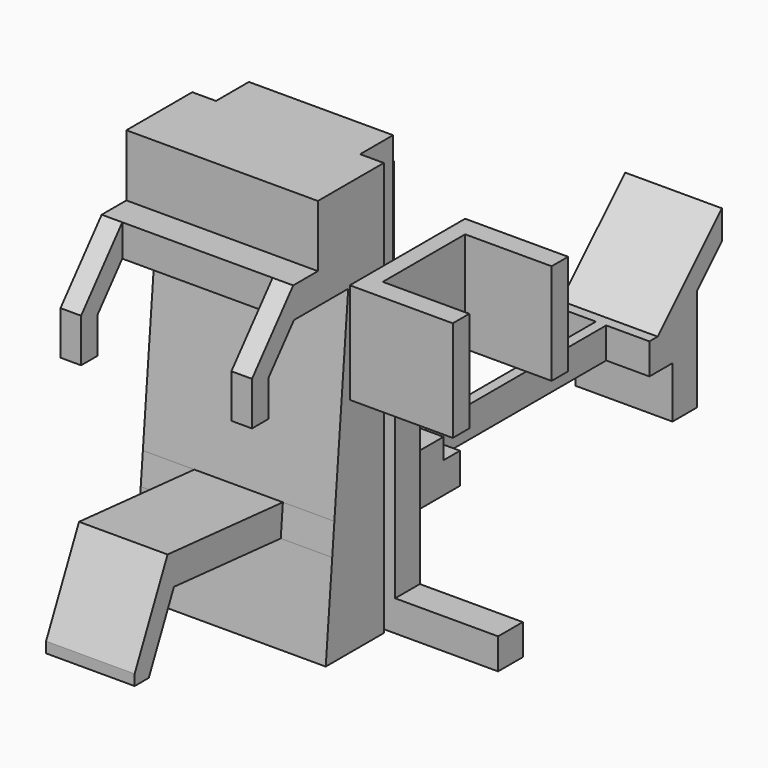
from build123d import *

# Parameters (mm, degrees)
F0_W           = 700
F0_H           = 200
F1_DEPTH       = 2010
F3_DEPTH       = 75
F6_DEPTH       = 465
F7_W           = 730
F7_H           = 250
F8_DEPTH       = 510
F10_DEPTH      = 235
F11_DEPTH      = 450
F11_DEPTH_BACK = 40
F12_W          = 250
F12_H          = 702.6738862803
F12_H_2        = 161.8577209214
F13_DEPTH      = 678.928617416
F14_W          = 210
F14_H          = 1150
F15_DEPTH      = 400.001


with BuildPart() as f1:
    # F0 (on Top) → F1 (new body)
    with BuildSketch(Plane.XY):
        Rectangle(F0_W, F0_H)
    extrude(amount=F1_DEPTH)

    # F2 (on Front) → F3 (join, symmetric)
    with BuildSketch(Plane.XZ):
        Polygon((500, 1150), (350, 1150), (350, 0), (1000, 0), (1000, 150), (500, 150), align=None)
    extrude(amount=F3_DEPTH, both=True)

    # F5 (on Right) → F6 (join, symmetric)
    with BuildSketch(Plane.YZ):
        Polygon((-100, 0), (-100, 2010), (-500, 2010), (-500, 1710), (-650, 1710), (-900, 1412.0616018514), (-900, 1200), (-800, 1200), (-800, 1375.6645784248), (-645.3242157434, 1560), (-316.0108830151, 1560), (-400, 600), (-1100, 661.2420644681), (-1300, 232.3406803662), (-1300, 180), (-1214.0690681916, 180), (-1061.4483185813, 507.2962537526), (-413.0733614121, 450.5707952862), (-452.4931981156, 0), align=None)
    extrude(amount=F6_DEPTH, both=True)

    # F7 (on face) → F8 (cut, through all)
    with BuildSketch(Plane.XY.offset(1710)):
        with Locations((0, -775)):
            Rectangle(F7_W, F7_H)
    extrude(amount=-F8_DEPTH, mode=Mode.SUBTRACT)

    # F9 (on Right) → F10 (join, symmetric)
    with BuildSketch(Plane.YZ):
        Polygon((100, 1800), (100, 250), (1940, 250), (1940, 0), (2090, 0), (2090, 498.5786437627), (2240, 648.5786437627), (2240, 790), (1850, 400), (550, 400), (550, 500), (250, 500), (250, 1800), align=None)
    extrude(amount=F10_DEPTH, both=True)

    # F4 (on face) → F11 (join, two sides)
    with BuildSketch(Plane.XY.offset(1150)) as f11_sk:
        Polygon((1000, 350), (500, 350), (500, 75), (500, 0), (500, -75), (500, -350), (1000, -350), (1000, -250), (580, -250), (580, 0), (580, 250), (1000, 250), align=None)
    extrude(amount=F11_DEPTH)
    extrude(f11_sk.sketch, amount=-F11_DEPTH_BACK)

    # F12 (on face) → F13 (cut, up to face)
    with BuildSketch(Plane(origin=(0, 49.0560039025, 560.7126903703), x_dir=(1, 0, 0), z_dir=(0, 0.0871557427, 0.9961946981))):
        with Locations((-340, -802.1082680255)):
            Rectangle(F12_W, F12_H)
        with Locations((-340, -1234.3740716264)):
            Rectangle(F12_W, F12_H_2)
        with Locations((340, -802.1082680255)):
            Rectangle(F12_W, F12_H)
        with Locations((340, -1234.3740716264)):
            Rectangle(F12_W, F12_H_2)
    extrude(amount=-F13_DEPTH, mode=Mode.SUBTRACT)

    # F14 (on face) → F15 (cut, through all)
    with BuildSketch(Plane.XY.offset(400)):
        with Locations((-130, 1225)):
            Rectangle(F14_W, F14_H)
        with Locations((130, 1225)):
            Rectangle(F14_W, F14_H)
    extrude(amount=-F15_DEPTH, mode=Mode.SUBTRACT)


solid = f1.part
